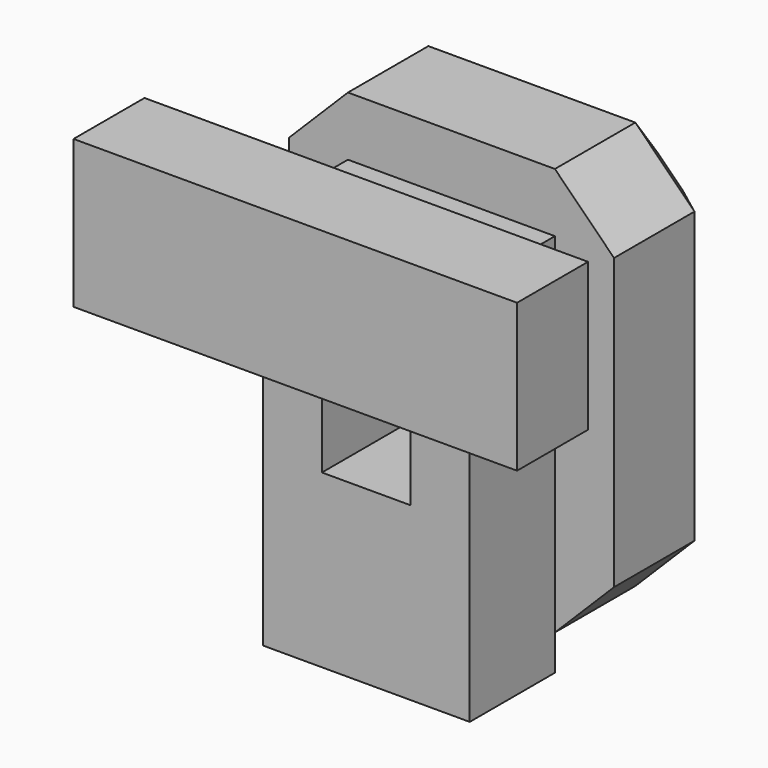
from build123d import *

# Parameters (mm, degrees)
SKETCH029_W     = 3.5
SKETCH029_H     = 6.5
PAD023_DEPTH    = 0.9
SKETCH030_W     = 7.5
SKETCH030_H     = 2.5
PAD024_DEPTH    = 1.5
PAD025_DEPTH    = 2.7
SKETCH032_W     = 1.5
SKETCH032_H     = 1.2
POCKET002_DEPTH = 2.5
CHAMFER004_SIZE = 1


with BuildPart() as part:
    # Sketch029 → Pad023 (new body, symmetric)
    with BuildSketch(Plane.XZ):
        with Locations((0, 3.25)):
            Rectangle(SKETCH029_W, SKETCH029_H)
    extrude(amount=PAD023_DEPTH, both=True)

    # Sketch030 (on Face6 of Pad023) → Pad024 (join)
    with BuildSketch(Plane.XZ.offset(0.9)):
        with Locations((0, 6.25)):
            Rectangle(SKETCH030_W, SKETCH030_H)
    extrude(amount=PAD024_DEPTH)

    # Sketch033 (on DatumPlane) → Pad025 (join)
    with BuildSketch(Plane(origin=(0, 0.9, 0), x_dir=(-1, 0, 0), z_dir=(0, 1, 0))):
        Polygon((-1.75, 7.5), (1.75, 7.5), (2.75, 6.5), (2.75, 1.6), (1.75, 0.6), (-1.75, 0.6), (-2.75, 1.6), (-2.75, 6.5), align=None)
    extrude(amount=PAD025_DEPTH)

    # Sketch032 → Pocket002 (cut)
    with BuildSketch(Plane.XZ.offset(0.9)):
        with Locations((0, 3.5)):
            Rectangle(SKETCH032_W, SKETCH032_H)
    extrude(amount=-POCKET002_DEPTH, mode=Mode.SUBTRACT)

    # Chamfer004
    chamfer004_edges = [part.edges().sort_by_distance(p)[0] for p in [
        (2.75, 3.6, 4.05),
        (2.25, 3.6, 7),
        (0, 3.6, 7.5),
        (-2.25, 3.6, 7),
        (-2.75, 3.6, 4.05),
        (-2.25, 3.6, 1.1),
        (0, 3.6, 0.6),
        (2.25, 3.6, 1.1),
    ]]
    chamfer(chamfer004_edges, length=CHAMFER004_SIZE)


with BuildPart() as part_1:
    # Body013 placement: moved
    add(part.part.moved(Location((123.25, 0, 0))))


solid = part_1.part
